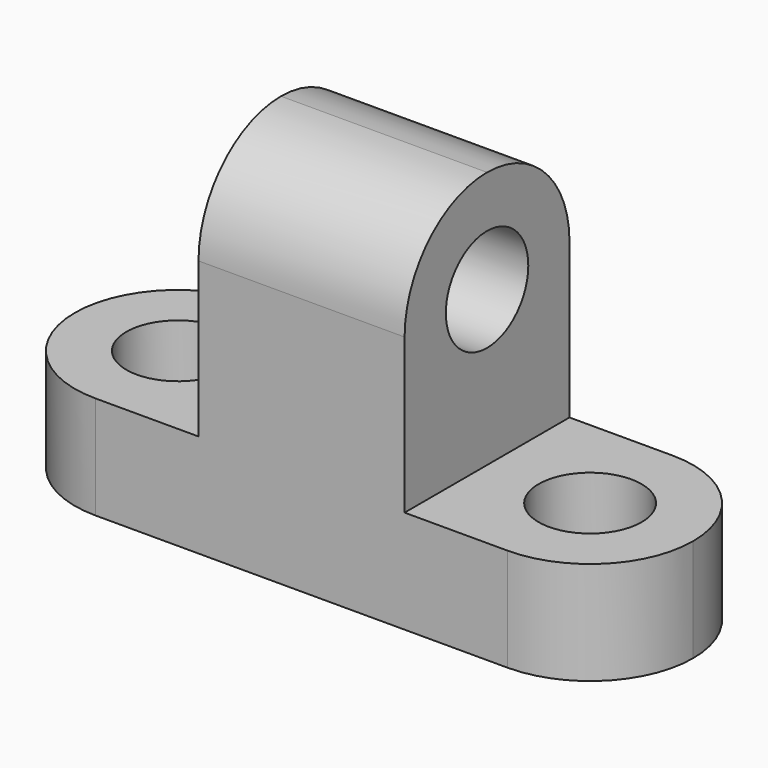
from build123d import *

# Parameters (mm, degrees)
F1_DEPTH = 25.4
F2_R     = 6.35
F3_DEPTH = 25.4
F4_R     = 6.35
F5_R     = 6.35
F6_DEPTH = 12.7


with BuildPart() as f1:
    # F0 (on Front) → F1 (new body)
    with BuildSketch(Plane.XZ):
        Polygon((-29.038876, 55.849189), (-54.438876, 55.849189), (-54.438876, 24.099189), (-79.838876, 24.099189), (-79.838876, 11.399189), (-3.638876, 11.399189), (-3.638876, 24.099189), (-29.038876, 24.099189), align=None)
    extrude(amount=F1_DEPTH)

    # F2 (on face) → F3 (cut)
    with BuildSketch(Plane.YZ.offset(-29.038876)):
        with Locations((-12.7, 43.149189)):
            Circle(F2_R)
        with BuildLine():
            Line((-25.4, 55.849189), (-25.4, 43.149189))
            ThreePointArc((-25.4, 43.149189), (-21.680256, 52.129446), (-12.7, 55.849189))
            Line((-12.7, 55.849189), (-25.4, 55.849189))
        make_face()
        with BuildLine():
            Line((0, 55.849189), (-12.7, 55.849189))
            ThreePointArc((-12.7, 55.849189), (-3.719744, 52.129446), (0, 43.149189))
            Line((0, 43.149189), (0, 55.849189))
        make_face()
    extrude(amount=-F3_DEPTH, mode=Mode.SUBTRACT)

    # F4 (on face) + F5 (on face) → F6 (cut)
    with BuildSketch(Plane.XY.offset(24.099189)):
        with Locations((-16.338876, -12.7)):
            Circle(F4_R)
        with BuildLine():
            Line((-3.638876, -25.4), (-3.638876, -12.7))
            ThreePointArc((-3.638876, -12.7), (-7.35862, -21.680256), (-16.338876, -25.4))
            Line((-16.338876, -25.4), (-3.638876, -25.4))
        make_face()
        with BuildLine():
            Line((-3.638876, 0), (-16.338876, 0))
            ThreePointArc((-16.338876, 0), (-7.35862, -3.719744), (-3.638876, -12.7))
            Line((-3.638876, -12.7), (-3.638876, 0))
        make_face()
    with BuildSketch(Plane.XY.offset(24.099189)):
        with BuildLine():
            ThreePointArc((-67.138876, -25.4), (-76.119132, -21.680256), (-79.838876, -12.7))
            Line((-79.838876, -12.7), (-79.838876, -25.4))
            Line((-79.838876, -25.4), (-67.138876, -25.4))
        make_face()
        with BuildLine():
            ThreePointArc((-79.838876, -12.7), (-76.119132, -3.719744), (-67.138876, 0))
            Line((-67.138876, 0), (-79.838876, 0))
            Line((-79.838876, 0), (-79.838876, -12.7))
        make_face()
        with Locations((-67.138876, -12.7)):
            Circle(F5_R)
    extrude(amount=-F6_DEPTH, mode=Mode.SUBTRACT)


solid = f1.part
